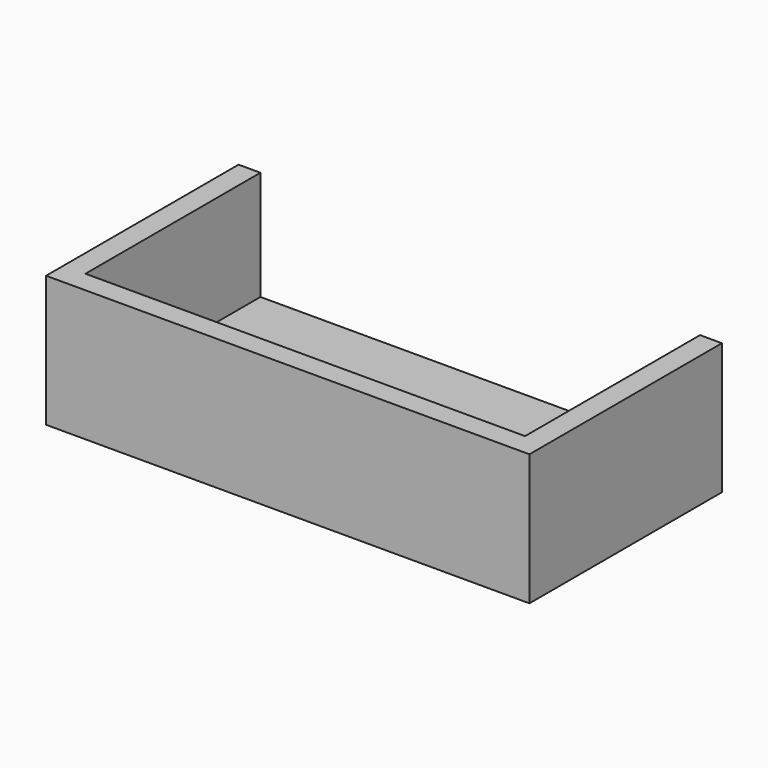
from build123d import *

# Parameters (mm, degrees)
F0_W     = 20.1
F0_H     = 10
F1_DEPTH = 1
F2_DEPTH = 6


with BuildPart() as f1:
    # F0 (on Top) → F1 (new body)
    with BuildSketch(Plane.XY):
        Rectangle(F0_W, F0_H)
    extrude(amount=F1_DEPTH)

    # F0 (on Top) → F2 (join)
    with BuildSketch(Plane.XY):
        Polygon((10.05, 5), (10.05, -5), (-10.05, -5), (-10.05, 5), (-11.05, 5), (-11.05, -6), (11.05, -6), (11.05, 5), align=None)
    extrude(amount=F2_DEPTH)


solid = f1.part
